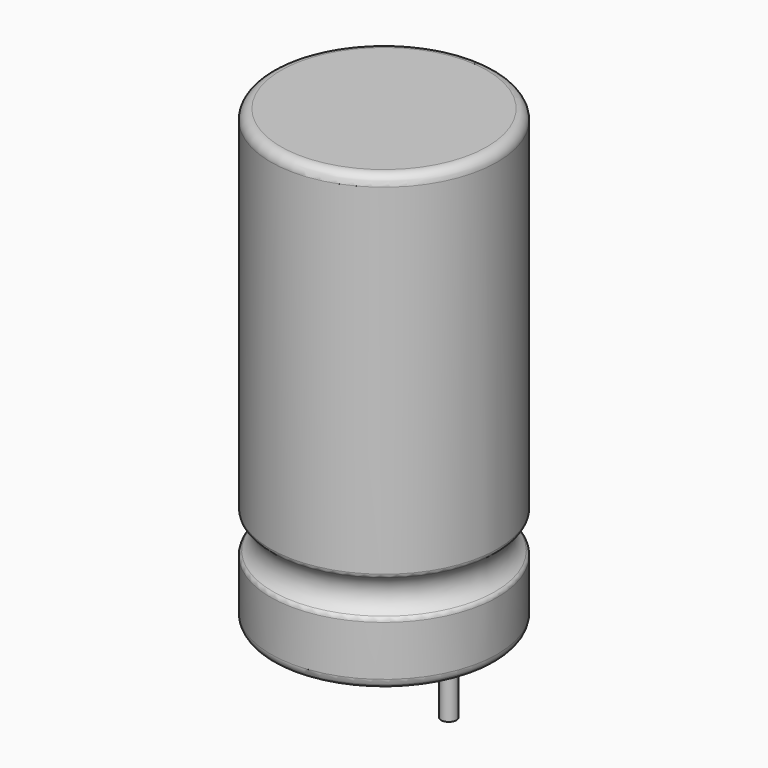
from build123d import *

# Parameters (mm, degrees)
F2_R     = 1
F3_R     = 0.5
F4_R     = 1
F5_R     = 0.75
F6_DEPTH = 6


with BuildPart() as f1:
    # F0 (on Front) → F1 (revolve)
    with BuildSketch(Plane.XZ):
        with BuildLine():
            Line((0, 44.45), (0, 0))
            Line((0, 0), (11.1125, 0))
            Line((11.1125, 0), (11.1125, 6.2))
            ThreePointArc((11.1125, 6.2), (10, 7.992301), (11.1125, 9.784602))
            Line((11.1125, 9.784602), (11.1125, 44.45))
            Line((11.1125, 44.45), (0, 44.45))
        make_face()
    revolve(axis=Axis((0, 0, 22.225), (0, 0, 1)))

    # F2
    f2_edges = [f1.edges().sort_by_distance(p)[0] for p in [
        (-11.1125, 0, 44.45),
    ]]
    fillet(f2_edges, radius=F2_R)

    # F3
    f3_edges = [f1.edges().sort_by_distance(p)[0] for p in [
        (11.1125, 0, 26.617301),
        (-11.1125, 0, 43.45),
        (-11.1125, 0, 9.784602),
        (-11.1125, 0, 6.2),
    ]]
    fillet(f3_edges, radius=F3_R)

    # F4
    f4_edges = [f1.edges().sort_by_distance(p)[0] for p in [
        (-11.1125, 0, 0),
    ]]
    fillet(f4_edges, radius=F4_R)

    # F5 (on face) → F6 (join)
    with BuildSketch(Plane(origin=(0, 0, 0), x_dir=(1, 0, 0), z_dir=(0, 0, -1))):
        with Locations((-6.35, 0)):
            Circle(F5_R)
        with Locations((6.35, 0)):
            Circle(F5_R)
    extrude(amount=F6_DEPTH)


solid = f1.part
